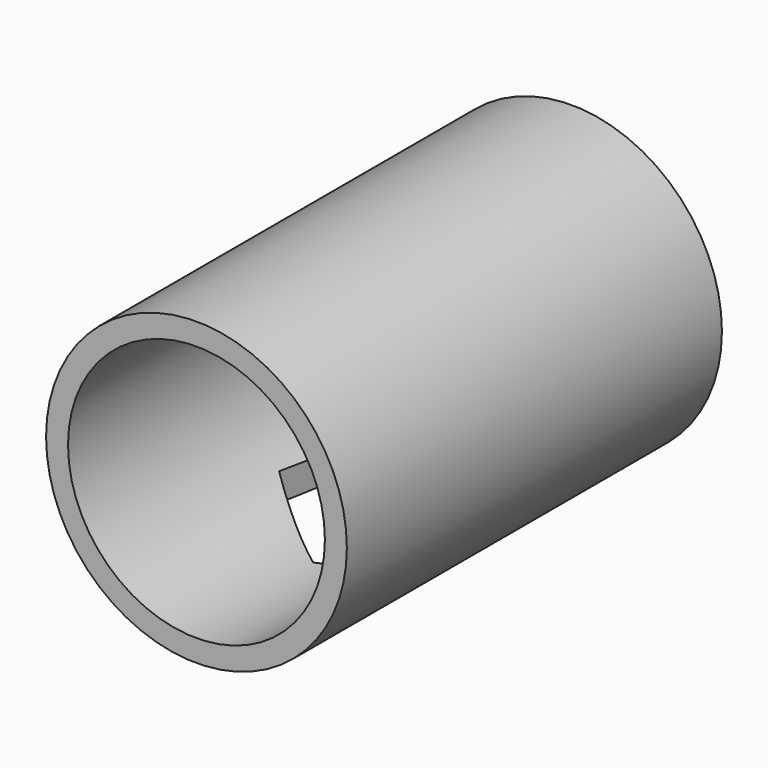
from build123d import *

# Parameters (mm, degrees)
SKETCH_R     = 16.037804
SKETCH_R_2   = 13.697081
PAD_DEPTH    = 50
POCKET_DEPTH = 18


with BuildPart() as part:
    # Sketch → Pad (new body)
    with BuildSketch(Plane.XZ):
        Circle(SKETCH_R)
        Circle(SKETCH_R_2, mode=Mode.SUBTRACT)
    extrude(amount=PAD_DEPTH)

    # Sketch001 → Pocket (cut)
    with BuildSketch(Plane.XY):
        Polygon((8.285895, -29.05966), (9.186356, -18.972051), (0.900461, -13.148425), (-8.285895, -17.412408), (-9.186356, -27.500017), (-0.900461, -33.323643), align=None)
    extrude(amount=-POCKET_DEPTH, mode=Mode.SUBTRACT)


solid = part.part
